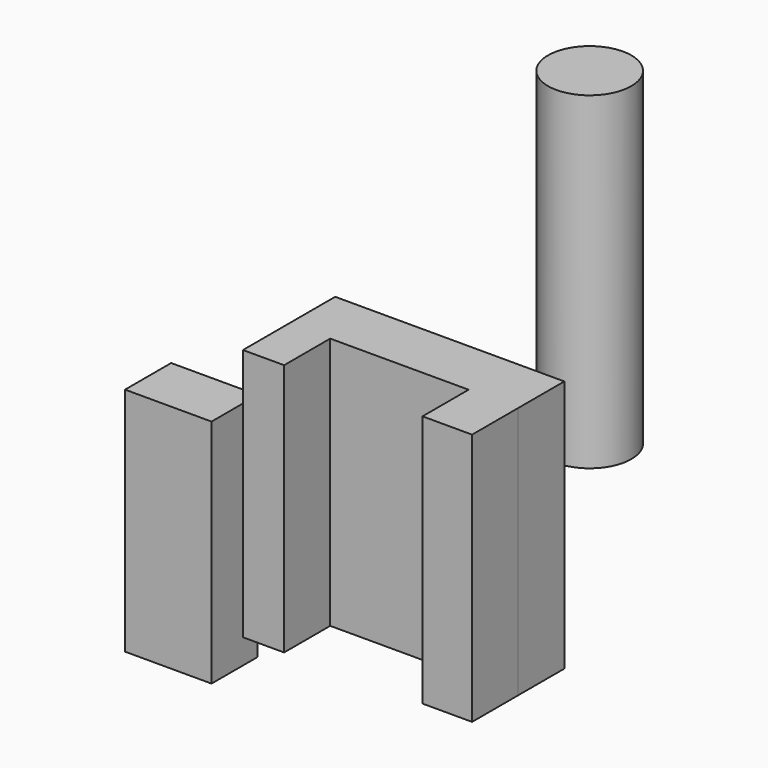
from build123d import *

# Parameters (mm, degrees)
F0_W     = 100.976043
F0_H     = 111.456186
F1_DEPTH = 25.4
F2_W     = 38.12021
F2_H     = 101.669848
F3_DEPTH = 25.4
F4_W     = 21.851093
F4_H     = 111.456186
F4_W_2   = 18.132247
F5_DEPTH = 25.4
F6_R     = 18.368269
F7_DEPTH = 144.72338


with BuildPart() as f1:
    # F0 (on Front) → F1 (new body)
    with BuildSketch(Plane.XZ):
        with Locations((2.469528, -6.524831)):
            Rectangle(F0_W, F0_H)
    extrude(amount=F1_DEPTH)

    # F4 (on face) → F5 (join)
    with BuildSketch(Plane.XZ.offset(25.4)):
        with Locations((42.032004, -6.524831)):
            Rectangle(F4_W, F4_H)
        with Locations((-38.95237, -6.524831)):
            Rectangle(F4_W_2, F4_H)
    extrude(amount=F5_DEPTH)


with BuildPart() as f3:
    # F2 (on Front) → F3 (new body)
    with BuildSketch(Plane.XZ):
        with Locations((-101.247504, -50.834924)):
            Rectangle(F2_W, F2_H)
    extrude(amount=F3_DEPTH)


with BuildPart() as f7:
    # F6 (on Top) → F7 (new body)
    with BuildSketch(Plane.XY):
        with Locations((29.750854, 42.993948)):
            Circle(F6_R)
    extrude(amount=F7_DEPTH)


solid = Compound([f1.part, f3.part, f7.part])
